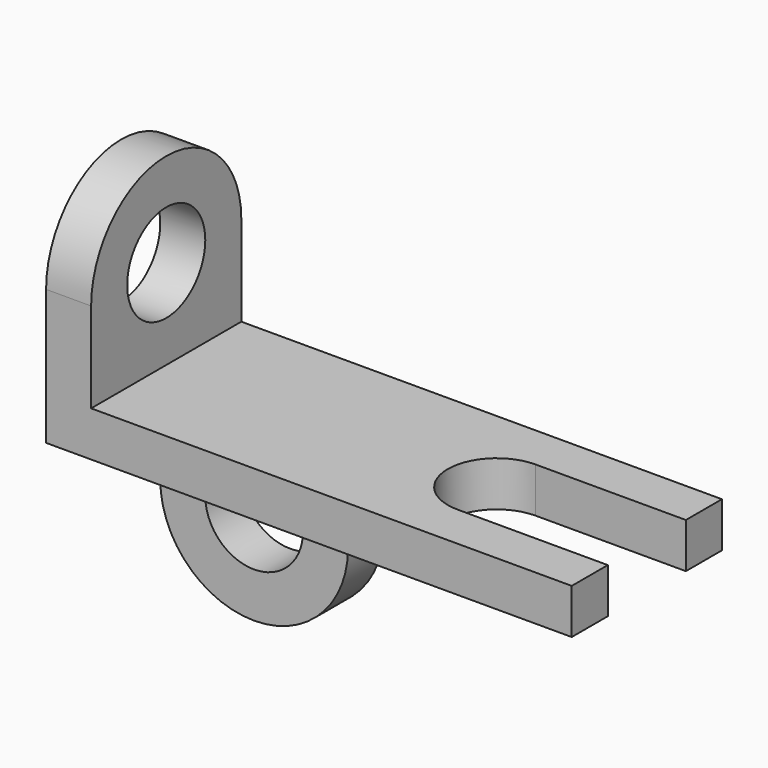
from build123d import *

# Parameters (mm, degrees)
F1_DEPTH = 6
F2_W     = 25
F2_H     = 6
F3_DEPTH = 6
F5_DEPTH = 6


with BuildPart() as f1:
    # F0 (on Top) → F1 (new body)
    with BuildSketch(Plane.XY):
        with BuildLine():
            Line((-32, -12.5), (32, -12.5))
            Line((32, -12.5), (32, -6.5))
            Line((32, -6.5), (12, -6.5))
            ThreePointArc((12, -6.5), (5.5, 0), (12, 6.5))
            Line((12, 6.5), (32, 6.5))
            Line((32, 6.5), (32, 12.5))
            Line((32, 12.5), (-32, 12.5))
            Line((-32, 12.5), (-32, -12.5))
        make_face()
    extrude(amount=F1_DEPTH)

    # F2 (on face) → F3 (join)
    with BuildSketch(Plane(origin=(-32, 0, 0), x_dir=(0, -1, 0), z_dir=(-1, 0, 0))):
        with Locations((0, 3)):
            Rectangle(F2_W, F2_H)
        with BuildLine():
            ThreePointArc((12.5, 18), (0, 30.5), (-12.5, 18))
            Line((-12.5, 18), (-6.5, 18))
            ThreePointArc((-6.5, 18), (0, 24.5), (6.5, 18))
            Line((6.5, 18), (12.5, 18))
        make_face()
        with Locations((0, 3)):
            Rectangle(F2_W, F2_H)
        with BuildLine():
            Line((-12.5, 18), (-12.5, 6))
            Line((-12.5, 6), (12.5, 6))
            Line((12.5, 6), (12.5, 18))
            Line((12.5, 18), (6.5, 18))
            ThreePointArc((6.5, 18), (0, 11.5), (-6.5, 18))
            Line((-6.5, 18), (-12.5, 18))
        make_face()
    extrude(amount=F3_DEPTH)

    # F4 (on face) → F5 (join)
    with BuildSketch(Plane(origin=(0, 12.5, 0), x_dir=(-1, 0, 0), z_dir=(0, 1, 0))):
        with BuildLine():
            Line((38, -12), (38, 6))
            Line((38, 6), (13, 6))
            Line((13, 6), (13, -12))
            ThreePointArc((13, -12), (25.5, 0.5), (38, -12))
        make_face()
        with BuildLine():
            ThreePointArc((13, -12), (25.5, -24.5), (38, -12))
            Line((38, -12), (32, -12))
            ThreePointArc((32, -12), (25.5, -18.5), (19, -12))
            Line((19, -12), (13, -12))
        make_face()
        with BuildLine():
            Line((32, -12), (38, -12))
            ThreePointArc((38, -12), (25.5, 0.5), (13, -12))
            Line((13, -12), (19, -12))
            ThreePointArc((19, -12), (25.5, -5.5), (32, -12))
        make_face()
    extrude(amount=-F5_DEPTH)


solid = f1.part
